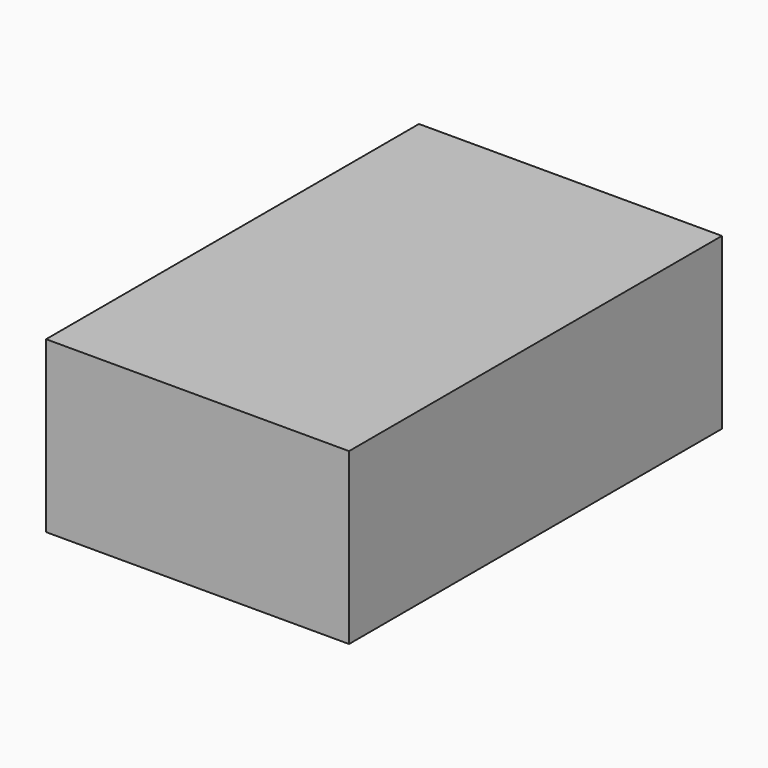
from build123d import *

# Parameters (mm, degrees)
F0_W     = 82.55
F0_H     = 46.277058
F1_DEPTH = 25.4
F2_DEPTH = 63.5


with BuildPart() as f1:
    # F0 (on Front) → F1 (new body)
    with BuildSketch(Plane.XZ):
        Rectangle(F0_W, F0_H)
    extrude(amount=-F1_DEPTH)

    # F0 (on Front) → F2 (join, symmetric)
    with BuildSketch(Plane.XZ):
        Rectangle(F0_W, F0_H)
    extrude(amount=F2_DEPTH, both=True)


solid = f1.part
